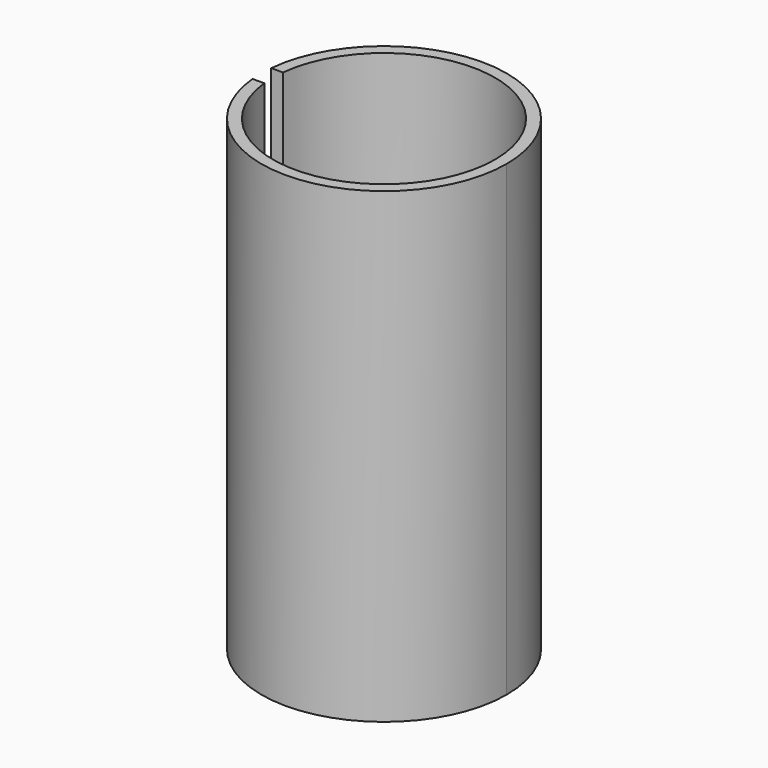
from build123d import *

# Parameters (mm, degrees)
F0_R     = 10.5
F0_R_2   = 9.5
F1_DEPTH = 40
F2_W     = 5
F2_H     = 2
F3_DEPTH = 40.001


with BuildPart() as f1:
    # F0 (on Top) → F1 (new body)
    with BuildSketch(Plane.XY):
        with Locations((-88.5, -95)):
            Circle(F0_R)
        with Locations((-88.5, -95)):
            Circle(F0_R_2, mode=Mode.SUBTRACT)
    extrude(amount=F1_DEPTH)

    # F2 (on face) → F3 (cut, through all)
    with BuildSketch(Plane.XY.offset(40)):
        with Locations((-100.125511, -95)):
            Rectangle(F2_W, F2_H)
    extrude(amount=-F3_DEPTH, mode=Mode.SUBTRACT)


with BuildPart() as f1_1:
    # F4: moved
    add(f1.part.moved(Location((0, 0, 50))))


solid = f1_1.part
